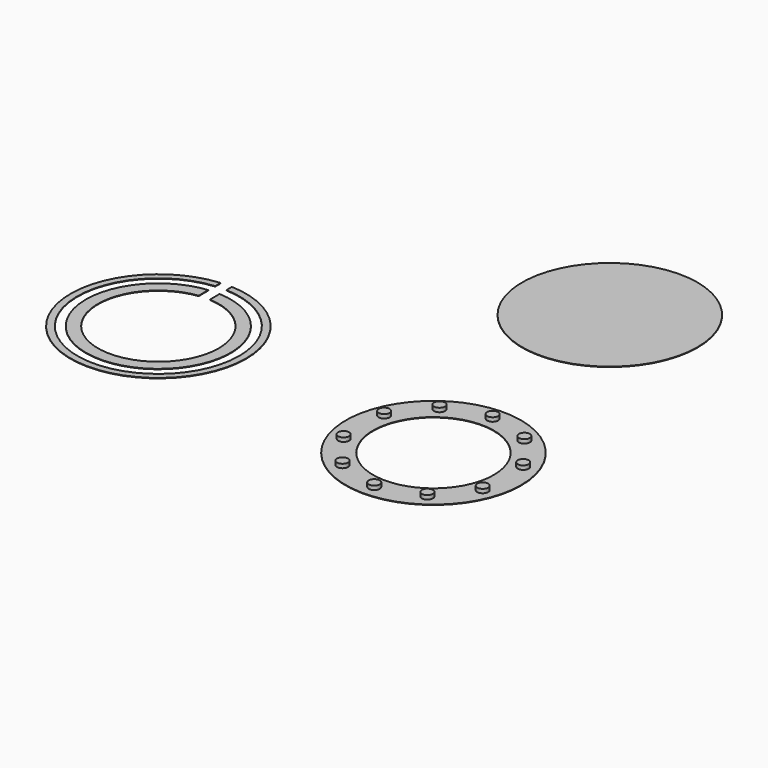
from build123d import *

# Parameters (mm, degrees)
F0_R      = 3.175
F1_DEPTH  = 2.54
F2_COUNT  = 3
F2_ANGLE  = 70
F3_COUNT  = 3
F3_ANGLE  = 70
F4_DEPTH  = 2.54
F5_COUNT  = 3
F5_ANGLE  = 70
F6_COUNT  = 3
F6_ANGLE  = 70
F0_R_2    = 50.8
F0_R_3    = 34.925
F7_DEPTH  = 0.254
F9_DEPTH  = 0.254
F10_R     = 50.8
F11_DEPTH = 0.254


with BuildPart() as f1:
    # F0 (on Top) → F1 (new body)
    with BuildSketch(Plane.XY):
        with Locations((0, 42.8625)):
            Circle(F0_R)
    extrude(amount=F1_DEPTH)


with BuildPart() as f2_1:
    # F2: instance of F1
    add(f1.part.rotate(Axis((0, 0, 0), (0, 0, 1)), 1 * F2_ANGLE / (F2_COUNT - 1)))


with BuildPart() as f2_2:
    # F2: instance of F1
    add(f1.part.rotate(Axis((0, 0, 0), (0, 0, 1)), 2 * F2_ANGLE / (F2_COUNT - 1)))


with BuildPart() as f3_1:
    # F3: instance of F1
    add(f1.part.rotate(Axis((0, 0, 0), (0, 0, -1)), 1 * F3_ANGLE / (F3_COUNT - 1)))


with BuildPart() as f3_2:
    # F3: instance of F1
    add(f1.part.rotate(Axis((0, 0, 0), (0, 0, -1)), 2 * F3_ANGLE / (F3_COUNT - 1)))


with BuildPart() as f4:
    # F0 (on Top) → F4 (new body)
    with BuildSketch(Plane.XY):
        with Locations((0, -42.8625)):
            Circle(F0_R)
    extrude(amount=F4_DEPTH)


with BuildPart() as f5_1:
    # F5: instance of F4
    add(f4.part.rotate(Axis((0, 0, 0), (0, 0, 1)), 1 * F5_ANGLE / (F5_COUNT - 1)))


with BuildPart() as f5_2:
    # F5: instance of F4
    add(f4.part.rotate(Axis((0, 0, 0), (0, 0, 1)), 2 * F5_ANGLE / (F5_COUNT - 1)))


with BuildPart() as f6_1:
    # F6: instance of F4
    add(f4.part.rotate(Axis((0, 0, 0), (0, 0, -1)), 1 * F6_ANGLE / (F6_COUNT - 1)))


with BuildPart() as f6_2:
    # F6: instance of F4
    add(f4.part.rotate(Axis((0, 0, 0), (0, 0, -1)), 2 * F6_ANGLE / (F6_COUNT - 1)))


with BuildPart() as f7:
    # F0 (on Top) → F7 (new body)
    with BuildSketch(Plane.XY):
        Circle(F0_R_2)
        with Locations((0, -42.8625)):
            Circle(F0_R, mode=Mode.SUBTRACT)
        Circle(F0_R_3, mode=Mode.SUBTRACT)
        with Locations((0, 42.8625)):
            Circle(F0_R, mode=Mode.SUBTRACT)
    extrude(amount=F7_DEPTH)


with BuildPart() as f9:
    # F8 (on Top) → F9 (new body)
    with BuildSketch(Plane.XY):
        with BuildLine():
            ThreePointArc((-132.7553425981, 19.1300512669), (-144.3356113296, 48.0533204662), (-172.676864964, 60.9928516593))
            Line((-172.676864964, 60.9928516593), (-172.676864964, 53.9983976816))
            ThreePointArc((-172.676864964, 53.9983976816), (-149.2763370409, 43.1124202452), (-139.7403425981, 19.1300512669))
            ThreePointArc((-139.7403425981, 19.1300512669), (-197.7682656379, -7.0617522605), (-179.0251283973, 53.7818606393))
            Line((-179.0251283973, 53.7818606393), (-179.0251283973, 60.8126659615))
            ThreePointArc((-179.0251283973, 60.8126659615), (-202.7164519983, -12.0080822903), (-132.7553425981, 19.1300512669))
        make_face()
    extrude(amount=F9_DEPTH)


with BuildPart() as f9b:
    # F8 (on Top) → F9, piece 2 (new body)
    with BuildSketch(Plane.XY):
        with BuildLine():
            ThreePointArc((-179.0251283973, 69.7426215215), (-209.0103777663, -18.3006655216), (-123.8653425981, 19.1300512669))
            ThreePointArc((-123.8653425981, 19.1300512669), (-138.0480334137, 54.3410249554), (-172.676864964, 69.891118599))
            Line((-172.676864964, 69.891118599), (-172.676864964, 65.9381335475))
            ThreePointArc((-172.676864964, 65.9381335475), (-140.8414502749, 51.5475607053), (-127.8150425981, 19.1300512669))
            ThreePointArc((-127.8150425981, 19.1300512669), (-206.2144577796, -15.5052477987), (-179.0251283973, 65.7770541489))
            Line((-179.0251283973, 65.7770541489), (-179.0251283973, 69.7426215215))
        make_face()
    extrude(amount=F9_DEPTH)


with BuildPart() as f11:
    # F10 (on Top) → F11 (new body)
    with BuildSketch(Plane.XY):
        with Locations((-22.1019890159, 155.3235650063)):
            Circle(F10_R)
    extrude(amount=F11_DEPTH)


solid = Compound([f1.part, f2_1.part, f2_2.part, f3_1.part, f3_2.part, f4.part, f5_1.part, f5_2.part, f6_1.part, f6_2.part, f7.part, f9.part, f9b.part, f11.part])
